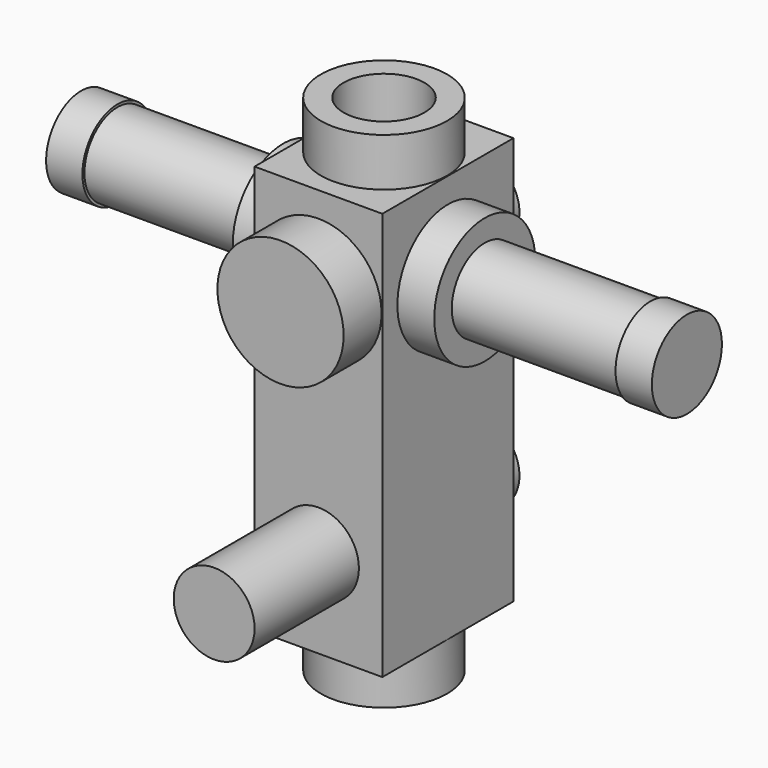
from build123d import *

# Parameters (mm, degrees)
F0_W      = 4.96
F0_H      = 15.83
F1_DEPTH  = 6.36
F2_R      = 2.45
F3_DEPTH  = 1.84
F4_R      = 2.45
F5_DEPTH  = 1.87
F6_R      = 2.45
F7_DEPTH  = 1.87
F9_D      = 3.14
F10_R     = 2.45
F11_DEPTH = 1.43
F12_R     = 2.45
F13_DEPTH = 1.43
F14_R     = 1.57
F15_DEPTH = 5.06
F16_R     = 1.57
F17_DEPTH = 1.43
F18_R     = 1.6
F19_DEPTH = 6.435
F20_R     = 1.7
F21_DEPTH = 1.41
F22_R     = 1.6
F23_DEPTH = 6.435
F24_R     = 1.7
F25_DEPTH = 1.41


with BuildPart() as f1:
    # F0 (on Front) → F1 (new body)
    with BuildSketch(Plane.XZ):
        with Locations((-27.94799, 11.446154)):
            Rectangle(F0_W, F0_H)
    extrude(amount=F1_DEPTH)

    # F2 (on face) → F3 (join)
    with BuildSketch(Plane.XZ.offset(6.36)):
        with Locations((-27.94799, 15.941154)):
            Circle(F2_R)
    extrude(amount=F3_DEPTH)

    # F4 (on face) → F5 (join)
    with BuildSketch(Plane.XY.offset(19.361154)):
        with Locations((-27.94799, -3.18)):
            Circle(F4_R)
    extrude(amount=F5_DEPTH)

    # F6 (on face) → F7 (join)
    with BuildSketch(Plane(origin=(0, 0, 3.531154), x_dir=(1, 0, 0), z_dir=(0, 0, -1))):
        with Locations((-27.94799, 3.18)):
            Circle(F6_R)
    extrude(amount=F7_DEPTH)

    # F9 (through all)
    with Locations(Plane(origin=(0, 0, 1.661154), x_dir=(1, 0, 0), z_dir=(0, 0, -1))):
        with Locations((-27.94799, 3.18)):
            Hole(F9_D / 2)

    # F10 (on face) → F11 (join)
    with BuildSketch(Plane.YZ.offset(-25.46799)):
        with Locations((-3.18, 15.941154)):
            Circle(F10_R)
    extrude(amount=F11_DEPTH)

    # F12 (on face) → F13 (join)
    with BuildSketch(Plane(origin=(-30.42799, 0, 0), x_dir=(0, -1, 0), z_dir=(-1, 0, 0))):
        with Locations((3.18, 15.941154)):
            Circle(F12_R)
    extrude(amount=F13_DEPTH)

    # F14 (on face) → F15 (join)
    with BuildSketch(Plane.XZ.offset(6.36)):
        with Locations((-27.94799, 6.951154)):
            Circle(F14_R)
    extrude(amount=F15_DEPTH)

    # F16 (on face) → F17 (join)
    with BuildSketch(Plane(origin=(0, 0, 0), x_dir=(-1, 0, 0), z_dir=(0, 1, 0))):
        with Locations((27.94799, 15.941154)):
            Circle(F16_R)
        with Locations((27.94799, 6.951154)):
            Circle(F16_R)
    extrude(amount=F17_DEPTH)

    # F18 (on face) → F19 (join)
    with BuildSketch(Plane(origin=(-31.85799, 0, 0), x_dir=(0, -1, 0), z_dir=(-1, 0, 0))):
        with Locations((3.18, 15.941154)):
            Circle(F18_R)
    extrude(amount=F19_DEPTH)

    # F20 (on face) → F21 (join)
    with BuildSketch(Plane(origin=(-38.29299, 0, 0), x_dir=(0, -1, 0), z_dir=(-1, 0, 0))):
        with Locations((3.18, 15.941154)):
            Circle(F20_R)
    extrude(amount=F21_DEPTH)

    # F22 (on face) → F23 (join)
    with BuildSketch(Plane.YZ.offset(-24.03799)):
        with Locations((-3.18, 15.941154)):
            Circle(F22_R)
    extrude(amount=F23_DEPTH)

    # F24 (on face) → F25 (join)
    with BuildSketch(Plane.YZ.offset(-17.60299)):
        with Locations((-3.18, 15.941154)):
            Circle(F24_R)
    extrude(amount=F25_DEPTH)


solid = f1.part
